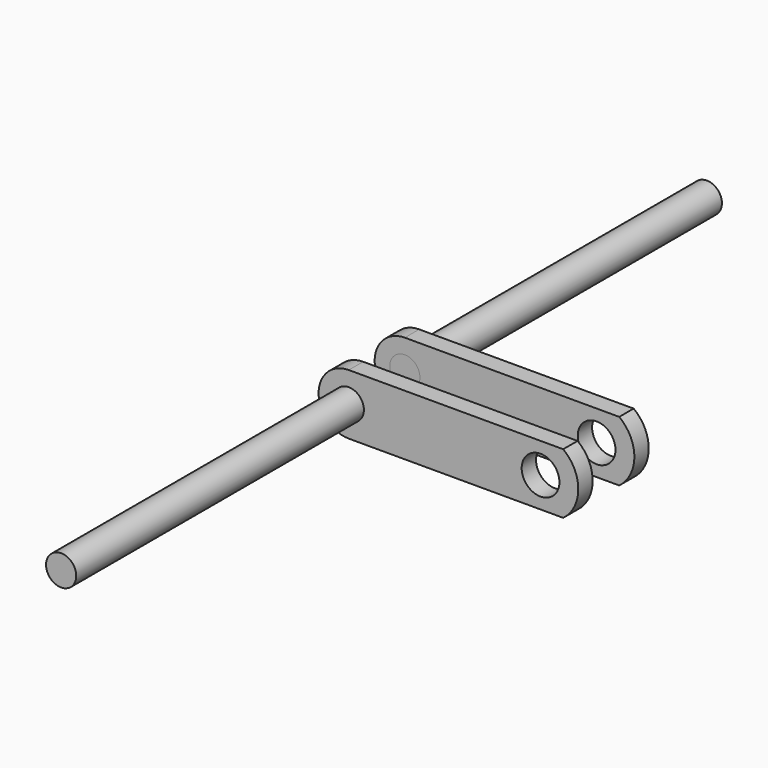
from build123d import *

# Parameters (mm, degrees)
F0_R     = 4
F0_R_2   = 5
F1_DEPTH = 4.7625
F2_R     = 4
F3_DEPTH = 100


with BuildPart() as f1:
    # F0 (on Front) → F1 (new body)
    with BuildSketch(Plane.XZ):
        with BuildLine():
            Line((6, 8), (-50.8, 8))
            ThreePointArc((-50.8, 8), (-58.8, 0), (-50.8, -8))
            Line((-50.8, -8), (6, -8))
            ThreePointArc((6, -8), (10, 0), (6, 8))
        make_face()
        with Locations((-50.8, 0)):
            Circle(F0_R, mode=Mode.SUBTRACT)
        Circle(F0_R_2, mode=Mode.SUBTRACT)
    extrude(amount=F1_DEPTH)


with BuildPart() as f3:
    # F2 (on Front) → F3 (new body)
    with BuildSketch(Plane.XZ):
        with Locations((-50.8, 0)):
            Circle(F2_R)
    extrude(amount=F3_DEPTH)


with BuildPart() as f5_1:
    # F5: instance of F1
    add(f1.part.mirror(Plane.XZ.offset(-6.9)))


with BuildPart() as f5_2:
    # F5: instance of F3
    add(f3.part.mirror(Plane.XZ.offset(-6.9)))


solid = Compound([f1.part, f3.part, f5_1.part, f5_2.part])
